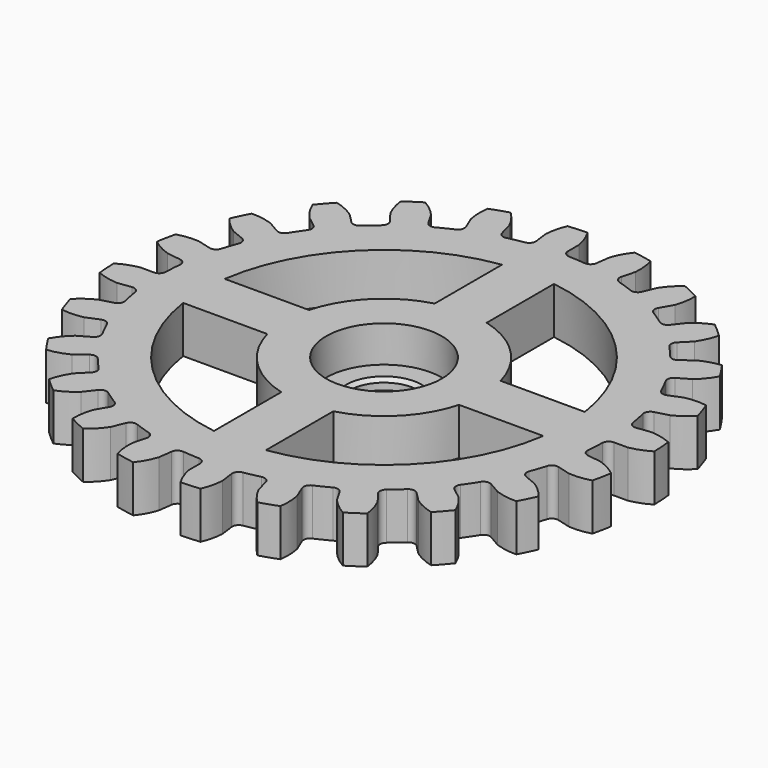
from build123d import *

# Parameters (mm, degrees)
F1_DEPTH = 9
F2_R     = 1.27
F3_R     = 11.1
F4_DEPTH = 25.4
F5_R     = 11.1
F5_R_2   = 6.6
F6_DEPTH = 2
F7_SIZE  = 0.7
F9_DEPTH = 25


with BuildPart() as f1:
    # F0 (on Top) → F1 (new body)
    with BuildSketch(Plane.XY):
        with BuildLine():
            ThreePointArc((0, 46.8884), (-0.568976, 48.899849), (-1.486174, 50.778256))
            ThreePointArc((-1.486174, 50.778256), (-3.322479, 50.691233), (-5.154433, 50.537826))
            ThreePointArc((-5.154433, 50.537826), (-5.818602, 48.555771), (-6.120164, 46.487263))
            Line((-6.120164, 46.487263), (-5.609598, 42.609128))
            ThreePointArc((-5.609598, 42.609128), (-2.810817, 42.884783), (0, 42.9768))
            Line((0, 42.9768), (0, 46.8884))
        make_face()
        with BuildLine():
            ThreePointArc((5.609598, 42.609128), (2.810817, 42.884783), (0, 42.9768))
            ThreePointArc((0, 42.9768), (-2.810817, 42.884783), (-5.609598, 42.609128))
            ThreePointArc((-5.609598, 42.609128), (-8.384358, 42.151013), (-11.123214, 41.512401))
            ThreePointArc((-11.123214, 41.512401), (-13.81444, 40.696027), (-16.446509, 39.705386))
            ThreePointArc((-16.446509, 39.705386), (-19.008153, 38.54472), (-21.4884, 37.219001))
            ThreePointArc((-21.4884, 37.219001), (-23.876631, 35.733903), (-26.162618, 34.095788))
            ThreePointArc((-26.162618, 34.095788), (-28.336573, 32.311669), (-30.389187, 30.389187))
            ThreePointArc((-30.389187, 30.389187), (-32.311669, 28.336573), (-34.095788, 26.162618))
            ThreePointArc((-34.095788, 26.162618), (-35.733903, 23.876631), (-37.219001, 21.4884))
            ThreePointArc((-37.219001, 21.4884), (-38.54472, 19.008153), (-39.705386, 16.446509))
            ThreePointArc((-39.705386, 16.446509), (-40.696027, 13.81444), (-41.512401, 11.123214))
            ThreePointArc((-41.512401, 11.123214), (-42.151013, 8.384358), (-42.609128, 5.609598))
            ThreePointArc((-42.609128, 5.609598), (-42.884783, 2.810817), (-42.9768, 0))
            ThreePointArc((-42.9768, 0), (-42.884783, -2.810817), (-42.609128, -5.609598))
            ThreePointArc((-42.609128, -5.609598), (-42.151013, -8.384358), (-41.512401, -11.123214))
            ThreePointArc((-41.512401, -11.123214), (-40.696027, -13.81444), (-39.705386, -16.446509))
            ThreePointArc((-39.705386, -16.446509), (-38.54472, -19.008153), (-37.219001, -21.4884))
            ThreePointArc((-37.219001, -21.4884), (-35.733903, -23.876631), (-34.095788, -26.162618))
            ThreePointArc((-34.095788, -26.162618), (-32.311669, -28.336573), (-30.389187, -30.389187))
            ThreePointArc((-30.389187, -30.389187), (-28.336573, -32.311669), (-26.162618, -34.095788))
            ThreePointArc((-26.162618, -34.095788), (-23.876631, -35.733903), (-21.4884, -37.219001))
            ThreePointArc((-21.4884, -37.219001), (-19.008153, -38.54472), (-16.446509, -39.705386))
            ThreePointArc((-16.446509, -39.705386), (-13.81444, -40.696027), (-11.123214, -41.512401))
            ThreePointArc((-11.123214, -41.512401), (-8.384358, -42.151013), (-5.609598, -42.609128))
            ThreePointArc((-5.609598, -42.609128), (-2.810817, -42.884783), (0, -42.9768))
            ThreePointArc((0, -42.9768), (2.810817, -42.884783), (5.609598, -42.609128))
            ThreePointArc((5.609598, -42.609128), (8.384358, -42.151013), (11.123214, -41.512401))
            ThreePointArc((11.123214, -41.512401), (13.81444, -40.696027), (16.446509, -39.705386))
            ThreePointArc((16.446509, -39.705386), (19.008153, -38.54472), (21.4884, -37.219001))
            ThreePointArc((21.4884, -37.219001), (23.876631, -35.733903), (26.162618, -34.095788))
            ThreePointArc((26.162618, -34.095788), (28.336573, -32.311669), (30.389187, -30.389187))
            ThreePointArc((30.389187, -30.389187), (32.311669, -28.336573), (34.095788, -26.162618))
            ThreePointArc((34.095788, -26.162618), (35.733903, -23.876631), (37.219001, -21.4884))
            ThreePointArc((37.219001, -21.4884), (38.54472, -19.008153), (39.705386, -16.446509))
            ThreePointArc((39.705386, -16.446509), (40.696027, -13.81444), (41.512401, -11.123214))
            ThreePointArc((41.512401, -11.123214), (42.151013, -8.384358), (42.609128, -5.609598))
            ThreePointArc((42.609128, -5.609598), (42.884783, -2.810817), (42.9768, 0))
            ThreePointArc((42.9768, 0), (42.884783, 2.810817), (42.609128, 5.609598))
            ThreePointArc((42.609128, 5.609598), (42.151013, 8.384358), (41.512401, 11.123214))
            ThreePointArc((41.512401, 11.123214), (40.696027, 13.81444), (39.705386, 16.446509))
            ThreePointArc((39.705386, 16.446509), (38.54472, 19.008153), (37.219001, 21.4884))
            ThreePointArc((37.219001, 21.4884), (35.733903, 23.876631), (34.095788, 26.162618))
            ThreePointArc((34.095788, 26.162618), (32.311669, 28.336573), (30.389187, 30.389187))
            ThreePointArc((30.389187, 30.389187), (28.336573, 32.311669), (26.162618, 34.095788))
            ThreePointArc((26.162618, 34.095788), (23.876631, 35.733903), (21.4884, 37.219001))
            ThreePointArc((21.4884, 37.219001), (19.008153, 38.54472), (16.446509, 39.705386))
            ThreePointArc((16.446509, 39.705386), (13.81444, 40.696027), (11.123214, 41.512401))
            ThreePointArc((11.123214, 41.512401), (8.384358, 42.151013), (5.609598, 42.609128))
        make_face()
        with BuildLine():
            Line((6.120164, 46.487263), (5.609598, 42.609128))
            ThreePointArc((5.609598, 42.609128), (8.384358, 42.151013), (11.123214, 41.512401))
            Line((11.123214, 41.512401), (12.135611, 45.290717))
            ThreePointArc((12.135611, 45.290717), (12.106623, 47.380889), (11.706846, 49.432679))
            ThreePointArc((11.706846, 49.432679), (9.910588, 49.823892), (8.101352, 50.149856))
            ThreePointArc((8.101352, 50.149856), (6.94682, 48.407238), (6.120164, 46.487263))
        make_face()
        with BuildLine():
            ThreePointArc((-16.446509, 39.705386), (-13.81444, 40.696027), (-11.123214, 41.512401))
            Line((-11.123214, 41.512401), (-12.135611, 45.290717))
            ThreePointArc((-12.135611, 45.290717), (-13.205801, 47.086366), (-14.577914, 48.663379))
            ThreePointArc((-14.577914, 48.663379), (-16.329125, 48.104051), (-18.058951, 47.481726))
            ThreePointArc((-18.058951, 47.481726), (-18.187497, 45.395308), (-17.943414, 43.319233))
            Line((-17.943414, 43.319233), (-16.446509, 39.705386))
        make_face()
        with BuildLine():
            Line((17.943414, 43.319233), (16.446509, 39.705386))
            ThreePointArc((16.446509, 39.705386), (19.008153, 38.54472), (21.4884, 37.219001))
            Line((21.4884, 37.219001), (23.4442, 40.606546))
            ThreePointArc((23.4442, 40.606546), (23.957177, 42.633), (24.102063, 44.718347))
            ThreePointArc((24.102063, 44.718347), (22.468265, 45.561135), (20.805043, 46.344257))
            ThreePointArc((20.805043, 46.344257), (19.238828, 44.959832), (17.943414, 43.319233))
        make_face()
        with BuildLine():
            ThreePointArc((-26.162618, 34.095788), (-23.876631, 35.733903), (-21.4884, 37.219001))
            Line((-21.4884, 37.219001), (-23.4442, 40.606546))
            ThreePointArc((-23.4442, 40.606546), (-24.942673, 42.064024), (-26.676193, 43.232173))
            ThreePointArc((-26.676193, 43.232173), (-28.222968, 42.238656), (-29.732782, 41.189825))
            ThreePointArc((-29.732782, 41.189825), (-29.316943, 39.14123), (-28.543849, 37.199069))
            Line((-28.543849, 37.199069), (-26.162618, 34.095788))
        make_face()
        with BuildLine():
            Line((28.543849, 37.199069), (26.162618, 34.095788))
            ThreePointArc((26.162618, 34.095788), (28.336573, 32.311669), (30.389187, 30.389187))
            Line((30.389187, 30.389187), (33.155106, 33.155106))
            ThreePointArc((33.155106, 33.155106), (34.175088, 34.979742), (34.854765, 36.956533))
            ThreePointArc((34.854765, 36.956533), (33.494767, 38.193462), (32.090905, 39.380374))
            ThreePointArc((32.090905, 39.380374), (30.219742, 38.448488), (28.543849, 37.199069))
        make_face()
        with BuildLine():
            ThreePointArc((-34.095788, 26.162618), (-32.311669, 28.336573), (-30.389187, 30.389187))
            Line((-30.389187, 30.389187), (-33.155106, 33.155106))
            ThreePointArc((-33.155106, 33.155106), (-34.979742, 34.175088), (-36.956533, 34.854765))
            ThreePointArc((-36.956533, 34.854765), (-38.193462, 33.494767), (-39.380374, 32.090905))
            ThreePointArc((-39.380374, 32.090905), (-38.448488, 30.219742), (-37.199069, 28.543849))
            Line((-37.199069, 28.543849), (-34.095788, 26.162618))
        make_face()
        with BuildLine():
            Line((37.199069, 28.543849), (34.095788, 26.162618))
            ThreePointArc((34.095788, 26.162618), (35.733903, 23.876631), (37.219001, 21.4884))
            Line((37.219001, 21.4884), (40.606546, 23.4442))
            ThreePointArc((40.606546, 23.4442), (42.064024, 24.942673), (43.232173, 26.676193))
            ThreePointArc((43.232173, 26.676193), (42.238656, 28.222968), (41.189825, 29.732782))
            ThreePointArc((41.189825, 29.732782), (39.14123, 29.316943), (37.199069, 28.543849))
        make_face()
        with BuildLine():
            ThreePointArc((-39.705386, 16.446509), (-38.54472, 19.008153), (-37.219001, 21.4884))
            Line((-37.219001, 21.4884), (-40.606546, 23.4442))
            ThreePointArc((-40.606546, 23.4442), (-42.633, 23.957177), (-44.718347, 24.102063))
            ThreePointArc((-44.718347, 24.102063), (-45.561135, 22.468265), (-46.344257, 20.805043))
            ThreePointArc((-46.344257, 20.805043), (-44.959832, 19.238828), (-43.319233, 17.943414))
            Line((-43.319233, 17.943414), (-39.705386, 16.446509))
        make_face()
        with BuildLine():
            Line((43.319233, 17.943414), (39.705386, 16.446509))
            ThreePointArc((39.705386, 16.446509), (40.696027, 13.81444), (41.512401, 11.123214))
            Line((41.512401, 11.123214), (45.290717, 12.135611))
            ThreePointArc((45.290717, 12.135611), (47.086366, 13.205801), (48.663379, 14.577914))
            ThreePointArc((48.663379, 14.577914), (48.104051, 16.329125), (47.481726, 18.058951))
            ThreePointArc((47.481726, 18.058951), (45.395308, 18.187497), (43.319233, 17.943414))
        make_face()
        with BuildLine():
            ThreePointArc((-42.609128, 5.609598), (-42.151013, 8.384358), (-41.512401, 11.123214))
            Line((-41.512401, 11.123214), (-45.290717, 12.135611))
            ThreePointArc((-45.290717, 12.135611), (-47.380889, 12.106623), (-49.432679, 11.706846))
            ThreePointArc((-49.432679, 11.706846), (-49.823892, 9.910588), (-50.149856, 8.101352))
            ThreePointArc((-50.149856, 8.101352), (-48.407238, 6.94682), (-46.487263, 6.120164))
            Line((-46.487263, 6.120164), (-42.609128, 5.609598))
        make_face()
        with BuildLine():
            Line((46.487263, 6.120164), (42.609128, 5.609598))
            ThreePointArc((42.609128, 5.609598), (42.884783, 2.810817), (42.9768, 0))
            Line((42.9768, 0), (46.8884, 0))
            ThreePointArc((46.8884, 0), (48.899849, 0.568976), (50.778256, 1.486174))
            ThreePointArc((50.778256, 1.486174), (50.691233, 3.322479), (50.537826, 5.154433))
            ThreePointArc((50.537826, 5.154433), (48.555771, 5.818602), (46.487263, 6.120164))
        make_face()
        with BuildLine():
            ThreePointArc((-42.609128, -5.609598), (-42.884783, -2.810817), (-42.9768, 0))
            Line((-42.9768, 0), (-46.8884, 0))
            ThreePointArc((-46.8884, 0), (-48.899849, -0.568976), (-50.778256, -1.486174))
            ThreePointArc((-50.778256, -1.486174), (-50.691233, -3.322479), (-50.537826, -5.154433))
            ThreePointArc((-50.537826, -5.154433), (-48.555771, -5.818602), (-46.487263, -6.120164))
            Line((-46.487263, -6.120164), (-42.609128, -5.609598))
        make_face()
        with BuildLine():
            Line((46.487263, -6.120164), (42.609128, -5.609598))
            ThreePointArc((42.609128, -5.609598), (42.151013, -8.384358), (41.512401, -11.123214))
            Line((41.512401, -11.123214), (45.290717, -12.135611))
            ThreePointArc((45.290717, -12.135611), (47.380889, -12.106623), (49.432679, -11.706846))
            ThreePointArc((49.432679, -11.706846), (49.823892, -9.910588), (50.149856, -8.101352))
            ThreePointArc((50.149856, -8.101352), (48.407238, -6.94682), (46.487263, -6.120164))
        make_face()
        with BuildLine():
            ThreePointArc((-39.705386, -16.446509), (-40.696027, -13.81444), (-41.512401, -11.123214))
            Line((-41.512401, -11.123214), (-45.290717, -12.135611))
            ThreePointArc((-45.290717, -12.135611), (-47.086366, -13.205801), (-48.663379, -14.577914))
            ThreePointArc((-48.663379, -14.577914), (-48.104051, -16.329125), (-47.481726, -18.058951))
            ThreePointArc((-47.481726, -18.058951), (-45.395308, -18.187497), (-43.319233, -17.943414))
            Line((-43.319233, -17.943414), (-39.705386, -16.446509))
        make_face()
        with BuildLine():
            Line((43.319233, -17.943414), (39.705386, -16.446509))
            ThreePointArc((39.705386, -16.446509), (38.54472, -19.008153), (37.219001, -21.4884))
            Line((37.219001, -21.4884), (40.606546, -23.4442))
            ThreePointArc((40.606546, -23.4442), (42.633, -23.957177), (44.718347, -24.102063))
            ThreePointArc((44.718347, -24.102063), (45.561135, -22.468265), (46.344257, -20.805043))
            ThreePointArc((46.344257, -20.805043), (44.959832, -19.238828), (43.319233, -17.943414))
        make_face()
        with BuildLine():
            ThreePointArc((-34.095788, -26.162618), (-35.733903, -23.876631), (-37.219001, -21.4884))
            Line((-37.219001, -21.4884), (-40.606546, -23.4442))
            ThreePointArc((-40.606546, -23.4442), (-42.064024, -24.942673), (-43.232173, -26.676193))
            ThreePointArc((-43.232173, -26.676193), (-42.238656, -28.222968), (-41.189825, -29.732782))
            ThreePointArc((-41.189825, -29.732782), (-39.14123, -29.316943), (-37.199069, -28.543849))
            Line((-37.199069, -28.543849), (-34.095788, -26.162618))
        make_face()
        with BuildLine():
            Line((37.199069, -28.543849), (34.095788, -26.162618))
            ThreePointArc((34.095788, -26.162618), (32.311669, -28.336573), (30.389187, -30.389187))
            Line((30.389187, -30.389187), (33.155106, -33.155106))
            ThreePointArc((33.155106, -33.155106), (34.979742, -34.175088), (36.956533, -34.854765))
            ThreePointArc((36.956533, -34.854765), (38.193462, -33.494767), (39.380374, -32.090905))
            ThreePointArc((39.380374, -32.090905), (38.448488, -30.219742), (37.199069, -28.543849))
        make_face()
        with BuildLine():
            ThreePointArc((-26.162618, -34.095788), (-28.336573, -32.311669), (-30.389187, -30.389187))
            Line((-30.389187, -30.389187), (-33.155106, -33.155106))
            ThreePointArc((-33.155106, -33.155106), (-34.175088, -34.979742), (-34.854765, -36.956533))
            ThreePointArc((-34.854765, -36.956533), (-33.494767, -38.193462), (-32.090905, -39.380374))
            ThreePointArc((-32.090905, -39.380374), (-30.219742, -38.448488), (-28.543849, -37.199069))
            Line((-28.543849, -37.199069), (-26.162618, -34.095788))
        make_face()
        with BuildLine():
            Line((28.543849, -37.199069), (26.162618, -34.095788))
            ThreePointArc((26.162618, -34.095788), (23.876631, -35.733903), (21.4884, -37.219001))
            Line((21.4884, -37.219001), (23.4442, -40.606546))
            ThreePointArc((23.4442, -40.606546), (24.942673, -42.064024), (26.676193, -43.232173))
            ThreePointArc((26.676193, -43.232173), (28.222968, -42.238656), (29.732782, -41.189825))
            ThreePointArc((29.732782, -41.189825), (29.316943, -39.14123), (28.543849, -37.199069))
        make_face()
        with BuildLine():
            ThreePointArc((-16.446509, -39.705386), (-19.008153, -38.54472), (-21.4884, -37.219001))
            Line((-21.4884, -37.219001), (-23.4442, -40.606546))
            ThreePointArc((-23.4442, -40.606546), (-23.957177, -42.633), (-24.102063, -44.718347))
            ThreePointArc((-24.102063, -44.718347), (-22.468265, -45.561135), (-20.805043, -46.344257))
            ThreePointArc((-20.805043, -46.344257), (-19.238828, -44.959832), (-17.943414, -43.319233))
            Line((-17.943414, -43.319233), (-16.446509, -39.705386))
        make_face()
        with BuildLine():
            Line((17.943414, -43.319233), (16.446509, -39.705386))
            ThreePointArc((16.446509, -39.705386), (13.81444, -40.696027), (11.123214, -41.512401))
            Line((11.123214, -41.512401), (12.135611, -45.290717))
            ThreePointArc((12.135611, -45.290717), (13.205801, -47.086366), (14.577914, -48.663379))
            ThreePointArc((14.577914, -48.663379), (16.329125, -48.104051), (18.058951, -47.481726))
            ThreePointArc((18.058951, -47.481726), (18.187497, -45.395308), (17.943414, -43.319233))
        make_face()
        with BuildLine():
            ThreePointArc((-5.609598, -42.609128), (-8.384358, -42.151013), (-11.123214, -41.512401))
            Line((-11.123214, -41.512401), (-12.135611, -45.290717))
            ThreePointArc((-12.135611, -45.290717), (-12.106623, -47.380889), (-11.706846, -49.432679))
            ThreePointArc((-11.706846, -49.432679), (-9.910588, -49.823892), (-8.101352, -50.149856))
            ThreePointArc((-8.101352, -50.149856), (-6.94682, -48.407238), (-6.120164, -46.487263))
            Line((-6.120164, -46.487263), (-5.609598, -42.609128))
        make_face()
        with BuildLine():
            Line((6.120164, -46.487263), (5.609598, -42.609128))
            ThreePointArc((5.609598, -42.609128), (2.810817, -42.884783), (0, -42.9768))
            Line((0, -42.9768), (0, -46.8884))
            ThreePointArc((0, -46.8884), (0.568976, -48.899849), (1.486174, -50.778256))
            ThreePointArc((1.486174, -50.778256), (3.322479, -50.691233), (5.154433, -50.537826))
            ThreePointArc((5.154433, -50.537826), (5.818602, -48.555771), (6.120164, -46.487263))
        make_face()
    extrude(amount=F1_DEPTH)

    # F2
    f2_edges = [f1.edges().sort_by_distance(p)[0] for p in [
        (-39.705386, 16.446509, 4.5),
        (-41.512401, 11.123214, 4.5),
        (-37.219001, 21.4884, 4.5),
        (-34.095788, 26.162618, 4.5),
        (-26.162618, 34.095788, 4.5),
        (-30.389187, 30.389187, 4.5),
        (-21.4884, 37.219001, 4.5),
        (-16.446509, 39.705386, 4.5),
        (-5.609598, 42.609128, 4.5),
        (-11.123214, 41.512401, 4.5),
        (0, 42.9768, 4.5),
        (5.609598, 42.609128, 4.5),
        (11.123214, 41.512401, 4.5),
        (16.446509, 39.705386, 4.5),
        (21.4884, 37.219001, 4.5),
        (26.162618, 34.095788, 4.5),
        (30.389187, 30.389187, 4.5),
        (34.095788, 26.162618, 4.5),
        (37.219001, 21.4884, 4.5),
        (41.512401, 11.123214, 4.5),
        (39.705386, 16.446509, 4.5),
        (42.609128, 5.609598, 4.5),
        (42.609128, -5.609598, 4.5),
        (42.9768, 0, 4.5),
        (41.512401, -11.123214, 4.5),
        (37.219001, -21.4884, 4.5),
        (30.389187, -30.389187, 4.5),
        (39.705386, -16.446509, 4.5),
        (34.095788, -26.162618, 4.5),
        (26.162618, -34.095788, 4.5),
        (21.4884, -37.219001, 4.5),
        (16.446509, -39.705386, 4.5),
        (11.123214, -41.512401, 4.5),
        (5.609598, -42.609128, 4.5),
        (0, -42.9768, 4.5),
        (-5.609598, -42.609128, 4.5),
        (-11.123214, -41.512401, 4.5),
        (-16.446509, -39.705386, 4.5),
        (-21.4884, -37.219001, 4.5),
        (-26.162618, -34.095788, 4.5),
        (-30.389187, -30.389187, 4.5),
        (-37.219001, -21.4884, 4.5),
        (-41.512401, -11.123214, 4.5),
        (-34.095788, -26.162618, 4.5),
        (-39.705386, -16.446509, 4.5),
        (-42.609128, -5.609598, 4.5),
        (-42.609128, 5.609598, 4.5),
        (-42.9768, 0, 4.5),
    ]]
    fillet(f2_edges, radius=F2_R)

    # F3 (on face) → F4 (cut)
    with BuildSketch(Plane.XY.offset(9)):
        Circle(F3_R)
    extrude(amount=-F4_DEPTH, mode=Mode.SUBTRACT)

    # F5 (on Top) → F6 (join)
    with BuildSketch(Plane.XY):
        Circle(F5_R)
        Circle(F5_R_2, mode=Mode.SUBTRACT)
    extrude(amount=F6_DEPTH)

    # F7
    f7_edges = [f1.edges().sort_by_distance(p)[0] for p in [
        (-6.6, 0, 2),
    ]]
    chamfer(f7_edges, length=F7_SIZE)

    # F8 (on face) → F9 (cut)
    with BuildSketch(Plane.XY.offset(9)):
        with BuildLine():
            Line((-5, 18.433936), (-5, 34.617576))
            ThreePointArc((-5, 34.617576), (-24.732332, 24.732332), (-34.617576, 5))
            Line((-34.617576, 5), (-18.433936, 5))
            ThreePointArc((-18.433936, 5), (-13.50574, 13.50574), (-5, 18.433936))
        make_face()
        with BuildLine():
            Line((18.433936, 5), (34.617576, 5))
            ThreePointArc((34.617576, 5), (24.732332, 24.732332), (5, 34.617576))
            Line((5, 34.617576), (5, 18.433936))
            ThreePointArc((5, 18.433936), (13.50574, 13.50574), (18.433936, 5))
        make_face()
        with BuildLine():
            ThreePointArc((-34.617576, -5), (-24.732332, -24.732332), (-5, -34.617576))
            Line((-5, -34.617576), (-5, -18.433936))
            ThreePointArc((-5, -18.433936), (-13.50574, -13.50574), (-18.433936, -5))
            Line((-18.433936, -5), (-34.617576, -5))
        make_face()
        with BuildLine():
            ThreePointArc((5, -34.617576), (24.732332, -24.732332), (34.617576, -5))
            Line((34.617576, -5), (18.433936, -5))
            ThreePointArc((18.433936, -5), (13.50574, -13.50574), (5, -18.433936))
            Line((5, -18.433936), (5, -34.617576))
        make_face()
    extrude(amount=-F9_DEPTH, mode=Mode.SUBTRACT)


solid = f1.part
